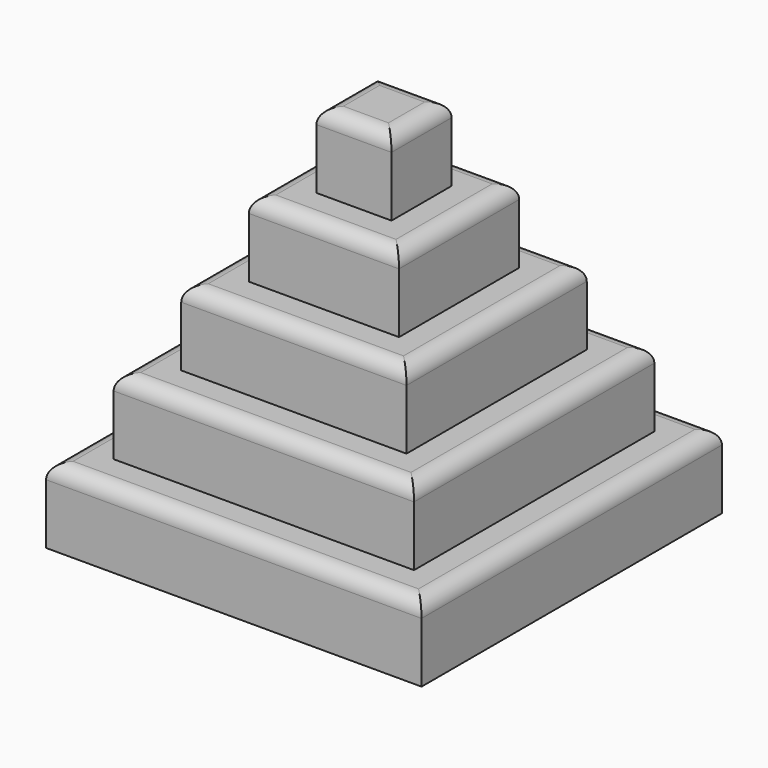
from build123d import *

# Parameters (mm, degrees)
F0_W     = 25.4
F0_H     = 25.4
F1_DEPTH = 127
F2_W     = 50.8
F2_H     = 50.8
F3_DEPTH = 101.6
F4_W     = 76.2
F4_H     = 76.2
F5_DEPTH = 76.2
F6_W     = 101.6
F6_H     = 101.6
F7_DEPTH = 50.8
F8_W     = 127
F8_H     = 127
F9_DEPTH = 25.4
F10_R    = 5.08


with BuildPart() as f1:
    # F0 (on Top) → F1 (new body)
    with BuildSketch(Plane.XY):
        Rectangle(F0_W, F0_H)
    extrude(amount=F1_DEPTH)

    # F2 (on Top) → F3 (join)
    with BuildSketch(Plane.XY):
        Rectangle(F2_W, F2_H)
    extrude(amount=F3_DEPTH)

    # F4 (on Top) → F5 (join)
    with BuildSketch(Plane.XY):
        Rectangle(F4_W, F4_H)
    extrude(amount=F5_DEPTH)

    # F6 (on Top) → F7 (join)
    with BuildSketch(Plane.XY):
        Rectangle(F6_W, F6_H)
    extrude(amount=F7_DEPTH)

    # F8 (on Top) → F9 (join)
    with BuildSketch(Plane.XY):
        Rectangle(F8_W, F8_H)
    extrude(amount=F9_DEPTH)

    # F10
    f10_edges = [f1.edges().sort_by_distance(p)[0] for p in [
        (0, -12.7, 127),
        (0, -25.4, 101.6),
        (0, -38.1, 76.2),
        (0, -50.8, 50.8),
        (0, -63.5, 25.4),
        (12.7, 0, 127),
        (0, 12.7, 127),
        (-12.7, 0, 127),
        (25.4, 0, 101.6),
        (0, 25.4, 101.6),
        (-25.4, 0, 101.6),
        (38.1, 0, 76.2),
        (0, 38.1, 76.2),
        (-38.1, 0, 76.2),
        (-50.8, 0, 50.8),
        (-63.5, 0, 25.4),
        (50.8, 0, 50.8),
        (63.5, 0, 25.4),
        (0, 50.8, 50.8),
        (0, 63.5, 25.4),
    ]]
    fillet(f10_edges, radius=F10_R)


solid = f1.part
